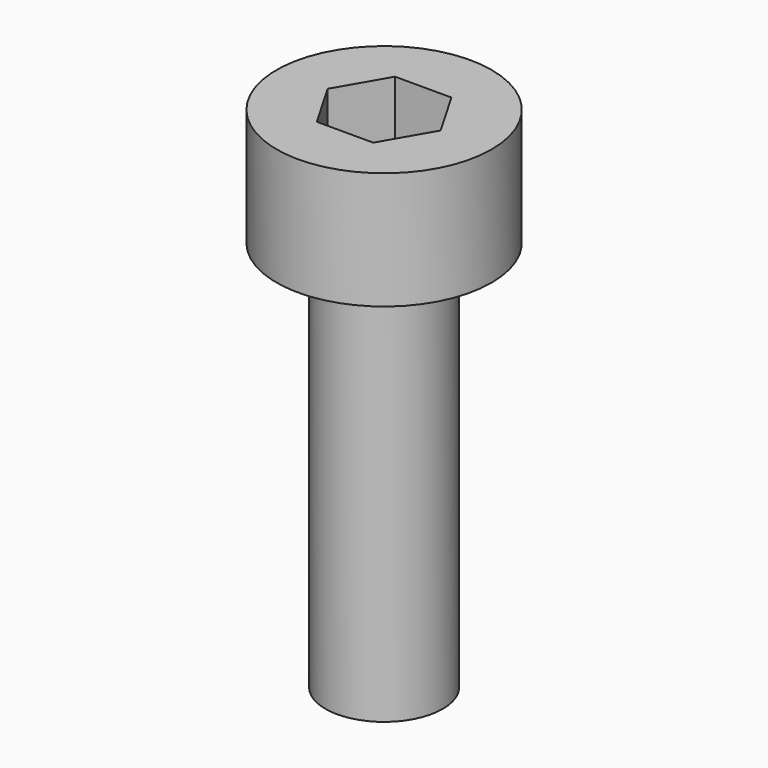
from build123d import *

# Parameters (mm, degrees)
SKETCH012_R     = 2.75
PAD007_DEPTH    = 3
SKETCH013_R     = 1.5
PAD008_DEPTH    = 10
POCKET004_DEPTH = 4


with BuildPart() as part:
    # Sketch012 → Pad007 (new body)
    with BuildSketch(Plane.XY):
        Circle(SKETCH012_R)
    extrude(amount=PAD007_DEPTH)

    # Sketch013 (on Face2 of Pad007) → Pad008 (join)
    with BuildSketch(Plane(origin=(0, 0, 0), x_dir=(1, 0, 0), z_dir=(0, 0, -1))):
        Circle(SKETCH013_R)
    extrude(amount=PAD008_DEPTH)

    # Sketch014 (on DatumPlane) → Pocket004 (cut)
    with BuildSketch(Plane.XY.offset(3)):
        Polygon((0.721688, -1.25), (1.443376, 0), (0.721688, 1.25), (-0.721688, 1.25), (-1.443376, 0), (-0.721688, -1.25), align=None)
    extrude(amount=-POCKET004_DEPTH, mode=Mode.SUBTRACT)


solid = part.part
